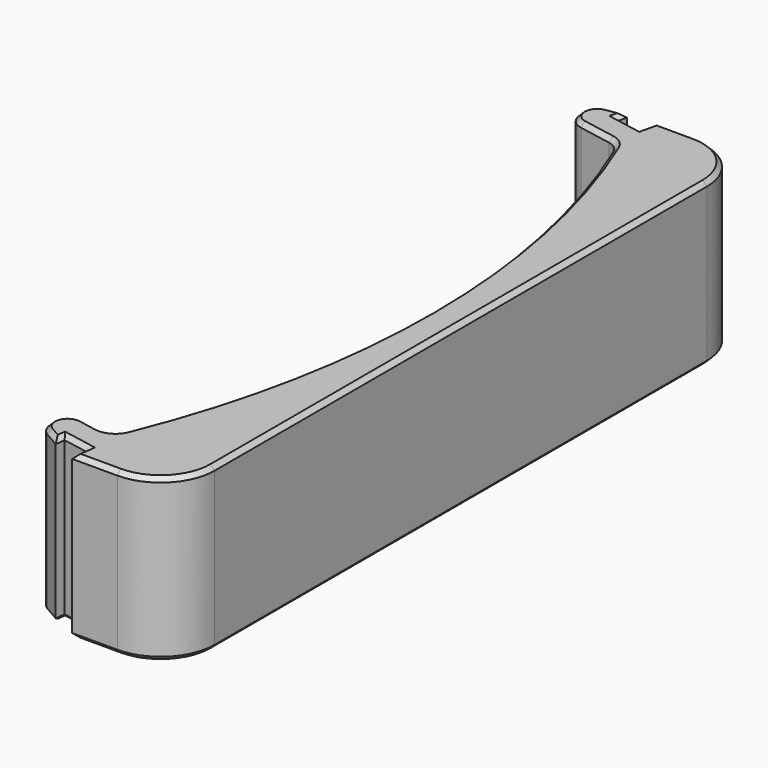
from build123d import *

# Parameters (mm, degrees)
F0_W     = 9
F0_H     = 2.69917
F0_H_2   = 1.5
F1_DEPTH = 15
F2_R     = 1.55
F3_R     = 5
F4_SIZE  = 0.4


with BuildPart() as f1:
    # F0 (on Top) → F1 (new body)
    with BuildSketch(Plane.XY):
        Polygon((-9, -32), (-9, -29.30083), (-13.436408, -28.483649), (-13.917276, -31.094244), (-11.458638, -31.547122), align=None)
        with Locations((-4.5, -30.650415)):
            Rectangle(F0_W, F0_H)
        Polygon((-9, -33.5), (-9, -32), (-9.197668, -33.5), align=None)
        with Locations((-4.5, -32.75)):
            Rectangle(F0_W, F0_H_2)
        Polygon((-11.576222, -32.439408), (-11.458638, -31.547122), (-13.917276, -31.094244), align=None)
        with BuildLine():
            Line((0, -29.30083), (0, 29.30083))
            Line((0, 29.30083), (-9, 29.30083))
            ThreePointArc((-9, 29.30083), (-2.96804, 0), (-9, -29.30083))
            Line((-9, -29.30083), (0, -29.30083))
        make_face()
        with Locations((-4.5, 30.650415)):
            Rectangle(F0_W, F0_H)
        Polygon((0, 32), (0, 33.5), (-8.643575, 33.5), (-9, 32), align=None)
        Polygon((-9, 29.30083), (-9, 32), (-11.458638, 32.452878), (-13.917276, 32.905756), (-14.398145, 30.295161), align=None)
        Polygon((-13.917276, 32.905756), (-11.458638, 32.452878), (-11.250576, 33.328498), align=None)
    extrude(amount=F1_DEPTH)

    # F2
    f2_edges = [f1.edges().sort_by_distance(p)[0] for p in [
        (-14.398145, 30.295161, 7.5),
        (-9, 29.30083, 7.5),
        (-13.436408, -28.483649, 7.5),
        (-9, -29.30083, 7.5),
        (-13.917276, -31.094244, 7.5),
        (-13.917276, 32.905756, 7.5),
    ]]
    fillet(f2_edges, radius=F2_R)

    # F3
    f3_edges = [f1.edges().sort_by_distance(p)[0] for p in [
        (0, 33.5, 7.5),
        (0, -33.5, 7.5),
    ]]
    fillet(f3_edges, radius=F3_R)

    # F4
    f4_edges = [f1.edges().sort_by_distance(p)[0] for p in [
        (-7.098834, -33.5, 15),
        (-1.464466, -32.035534, 15),
        (-9.098834, -32.75, 15),
        (0, 0, 15),
        (-10.229319, -31.773561, 15),
        (-1.464466, 32.035534, 15),
        (-11.51743, -31.993265, 15),
        (-6.821787, 33.5, 15),
        (-12.271362, -32.039982, 15),
        (-8.821787, 32.75, 15),
        (-13.60087, -30.94777, 15),
        (-10.229319, 32.226439, 15),
        (-13.717913, -30.011919, 15),
        (-11.354607, 32.890688, 15),
        (-13.072174, -29.012362, 15),
        (-12.042412, 33.202971, 15),
        (-11.069446, -28.91964, 15),
        (-13.673826, 32.656158, 15),
        (-9.203231, -28.9109, 15),
        (-14.116639, 31.823431, 15),
        (-2.968333, 0.208446, 15),
        (-13.869431, 30.659395, 15),
        (-9.128357, 29.133809, 15),
        (-11.347475, 29.733232, 15),
        (-7.098834, -33.5, 0),
        (-1.464466, -32.035534, 0),
        (-9.098834, -32.75, 0),
        (0, 0, 0),
        (-10.229319, -31.773561, 0),
        (-1.464466, 32.035534, 0),
        (-11.51743, -31.993265, 0),
        (-6.821787, 33.5, 0),
        (-12.271362, -32.039982, 0),
        (-8.821787, 32.75, 0),
        (-13.60087, -30.94777, 0),
        (-10.229319, 32.226439, 0),
        (-13.717913, -30.011919, 0),
        (-11.354607, 32.890688, 0),
        (-13.072174, -29.012362, 0),
        (-12.042412, 33.202971, 0),
        (-11.069446, -28.91964, 0),
        (-13.673826, 32.656158, 0),
        (-9.203231, -28.9109, 0),
        (-14.116639, 31.823431, 0),
        (-2.968333, 0.208446, 0),
        (-13.869431, 30.659395, 0),
        (-9.128357, 29.133809, 0),
        (-11.347475, 29.733232, 0),
    ]]
    chamfer(f4_edges, length=F4_SIZE)


solid = f1.part
